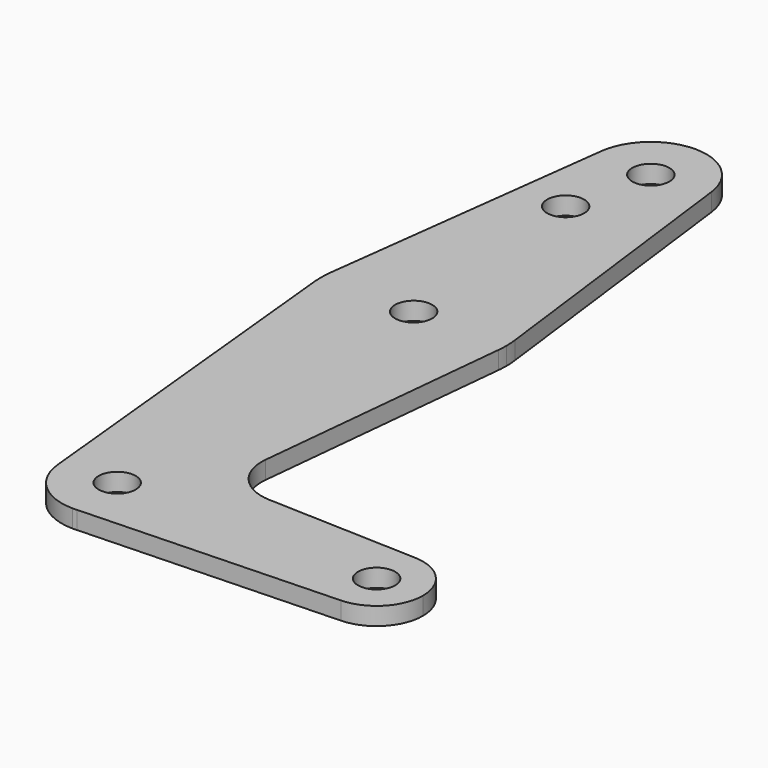
from build123d import *

# Parameters (mm, degrees)
F0_R     = 3.175
F1_DEPTH = 3.048


with BuildPart() as f1:
    # F0 (on Top) → F1 (new body)
    with BuildSketch(Plane.XY):
        with BuildLine():
            ThreePointArc((-245.847358, 428.865209), (-245.78769, 429.657962), (-245.767784, 430.452709))
            ThreePointArc((-245.767784, 430.452709), (-245.798942, 431.446848), (-245.892295, 432.437084))
            ThreePointArc((-245.892295, 432.437084), (-261.642784, 446.327709), (-277.393272, 432.437084))
            ThreePointArc((-277.393272, 432.437084), (-277.516527, 430.652415), (-277.438209, 428.865209))
            ThreePointArc((-277.438209, 428.865209), (-261.642784, 414.577709), (-245.847358, 428.865209))
        make_face()
        with Locations((-261.642784, 430.452709)):
            Circle(F0_R, mode=Mode.SUBTRACT)
        with BuildLine():
            ThreePointArc((-277.393272, 432.437084), (-261.642784, 446.327709), (-245.892295, 432.437084))
            Line((-245.892295, 432.437084), (-252.192491, 482.443334))
            ThreePointArc((-252.192491, 482.443334), (-252.136479, 481.849192), (-252.117784, 481.252709))
            ThreePointArc((-252.117784, 481.252709), (-262.239267, 471.746404), (-271.093077, 482.443334))
            Line((-271.093077, 482.443334), (-277.393272, 432.437084))
        make_face()
        with Locations((-264.817784, 466.977909)):
            Circle(F0_R, mode=Mode.SUBTRACT)
        with BuildLine():
            Line((-250.301597, 384.546091), (-245.847358, 428.865209))
            ThreePointArc((-245.847358, 428.865209), (-261.642784, 414.577709), (-277.438209, 428.865209))
            Line((-277.438209, 428.865209), (-271.120039, 366.000209))
            ThreePointArc((-271.120039, 366.000209), (-262.119631, 376.465765), (-252.117784, 366.952709))
            ThreePointArc((-252.117784, 366.952709), (-254.672227, 360.46141), (-260.96544, 357.451823))
            Line((-260.96544, 357.451823), (-216.910378, 359.020234))
            ThreePointArc((-216.910378, 359.020234), (-225.130284, 366.952709), (-216.910378, 374.885184))
            Line((-216.910378, 374.885184), (-242.675184, 375.805943))
            ThreePointArc((-242.675184, 375.805943), (-248.381584, 378.524068), (-250.301597, 384.546091))
        make_face()
        with BuildLine():
            ThreePointArc((-252.117784, 481.252709), (-252.136479, 481.849192), (-252.192491, 482.443334))
            ThreePointArc((-252.192491, 482.443334), (-261.642784, 490.777709), (-271.093077, 482.443334))
            ThreePointArc((-271.093077, 482.443334), (-262.239267, 471.746404), (-252.117784, 481.252709))
        make_face()
        with Locations((-261.642784, 481.252709)):
            Circle(F0_R, mode=Mode.SUBTRACT)
        with BuildLine():
            ThreePointArc((-252.117784, 366.952709), (-262.119631, 376.465765), (-271.120039, 366.000209))
            ThreePointArc((-271.120039, 366.000209), (-268.032348, 359.88878), (-261.642784, 357.427709))
            Line((-261.642784, 357.427709), (-260.96544, 357.451823))
            ThreePointArc((-260.96544, 357.451823), (-254.672227, 360.46141), (-252.117784, 366.952709))
        make_face()
        with Locations((-261.642784, 366.952709)):
            Circle(F0_R, mode=Mode.SUBTRACT)
        with BuildLine():
            Line((-260.96544, 357.451823), (-261.642784, 357.427709))
            ThreePointArc((-261.642784, 357.427709), (-261.303897, 357.433739), (-260.96544, 357.451823))
        make_face()
        with BuildLine():
            ThreePointArc((-209.255284, 366.952709), (-211.481151, 372.46462), (-216.910378, 374.885184))
            ThreePointArc((-216.910378, 374.885184), (-225.130284, 366.952709), (-216.910378, 359.020234))
            ThreePointArc((-216.910378, 359.020234), (-211.481151, 361.440799), (-209.255284, 366.952709))
        make_face()
        with Locations((-217.192784, 366.952709)):
            Circle(F0_R, mode=Mode.SUBTRACT)
    extrude(amount=F1_DEPTH)


solid = f1.part
